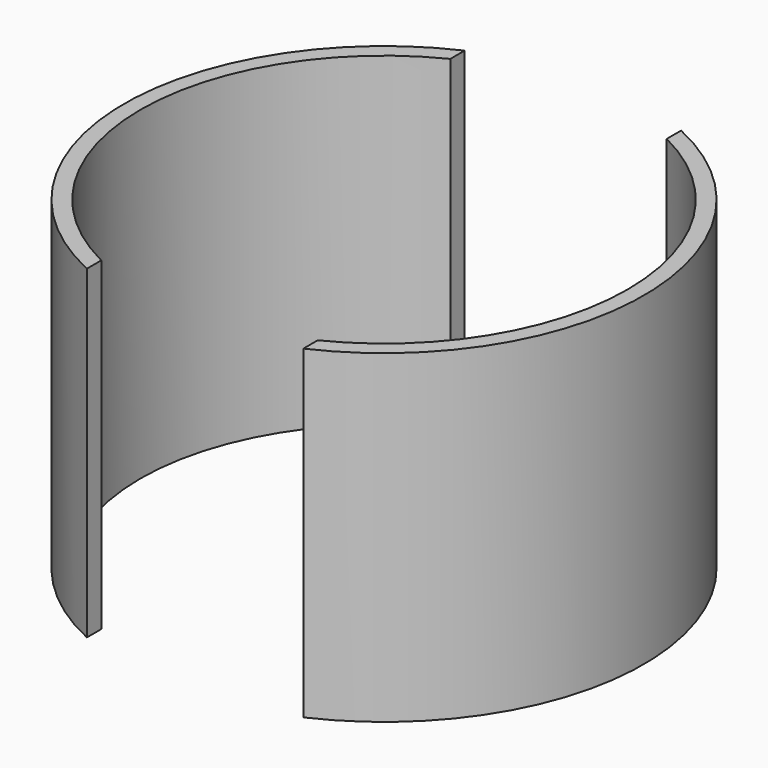
from build123d import *

# Parameters (mm, degrees)
F1_DEPTH = 38.1


with BuildPart() as f1:
    # F0 (on Top) → F1 (new body)
    with BuildSketch(Plane.XY):
        with BuildLine():
            ThreePointArc((-12.7, -25.597668), (-28.575, 0), (-12.7, 25.597668))
            Line((-12.7, 25.597668), (-12.7, 27.708129))
            ThreePointArc((-12.7, 27.708129), (-30.48, 0), (-12.7, -27.708129))
            Line((-12.7, -27.708129), (-12.7, -25.597668))
        make_face()
        with BuildLine():
            Line((12.7, 27.708129), (12.7, 25.597668))
            ThreePointArc((12.7, 25.597668), (28.575, 0), (12.7, -25.597668))
            Line((12.7, -25.597668), (12.7, -27.708129))
            ThreePointArc((12.7, -27.708129), (30.48, 0), (12.7, 27.708129))
        make_face()
    extrude(amount=F1_DEPTH)


solid = f1.part
